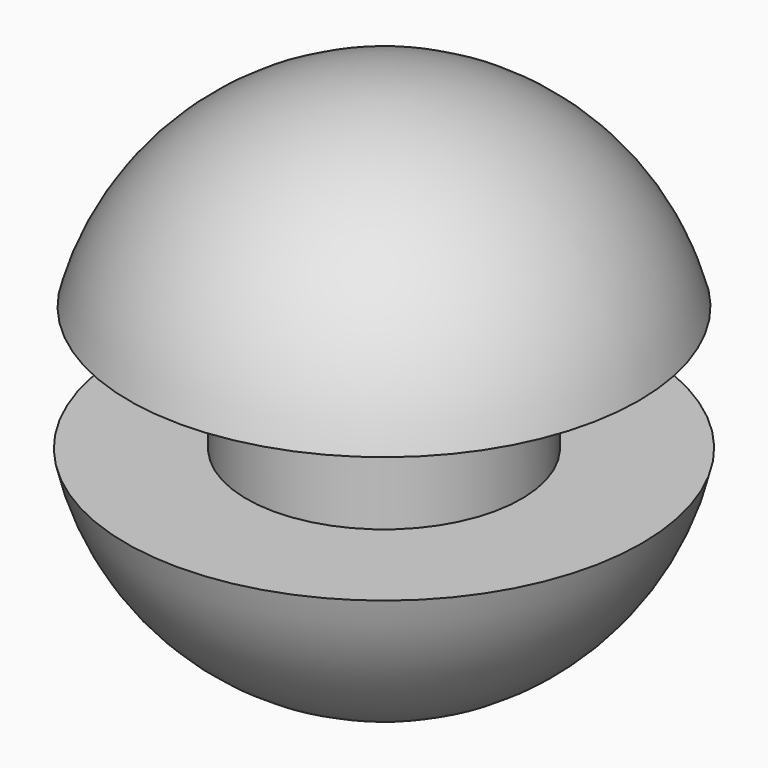
from build123d import *

# Parameters (mm, degrees)
F2_W = 55.233344
F2_H = 28.791847


with BuildPart() as f1:
    # F0 (on Front) → F1 (revolve)
    with BuildSketch(Plane.XZ):
        with BuildLine():
            Line((0, 60.923006), (0, -60.923006))
            ThreePointArc((0, -60.923006), (60.923006, 0), (0, 60.923006))
        make_face()
    revolve(axis=Axis((0, 0, 0), (0, 0, -1)))

    # F2 (on Right) → F3 (revolve, cut)
    with BuildSketch(Plane.YZ):
        with Locations((-59.346467, 1.371039)):
            Rectangle(F2_W, F2_H)
    revolve(axis=Axis((0, 0, -0.391727), (0, 0, -1)), mode=Mode.SUBTRACT)


solid = f1.part
